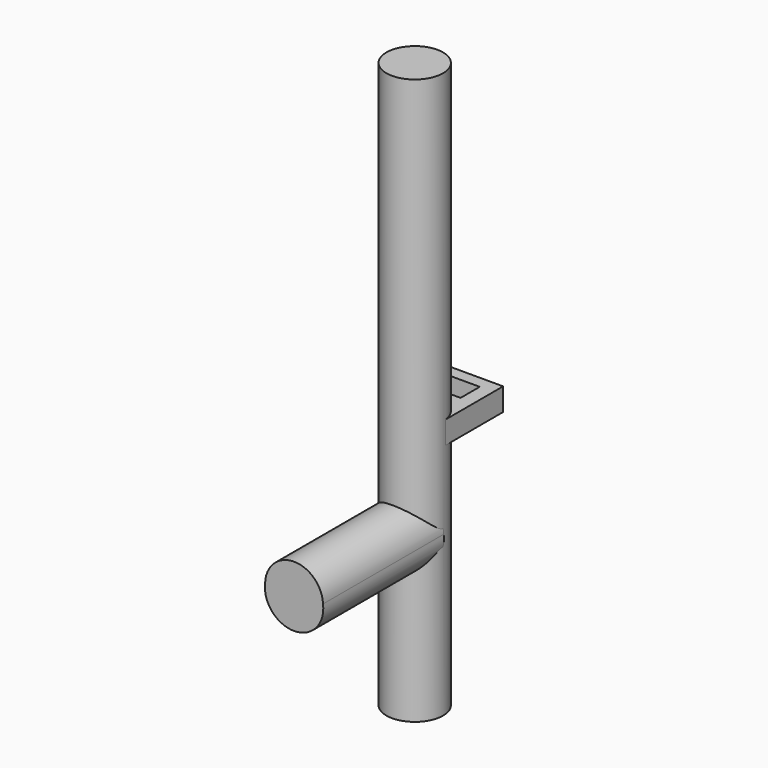
from build123d import *

# Parameters (mm, degrees)
F0_R     = 0.75
F1_DEPTH = 15
F2_R     = 0.767857
F3_DEPTH = 4
F4_R     = 0.774571
F5_DEPTH = 4
F6_W     = 1.488906
F6_H     = 0.601098
F7_DEPTH = 2
F8_W     = 0.76025
F8_H     = 0.634269
F9_DEPTH = 25


with BuildPart() as f1:
    # F0 (on Top) → F1 (new body)
    with BuildSketch(Plane.XY):
        Circle(F0_R)
        Circle(F0_R)
    extrude(amount=F1_DEPTH)

    # F2 (on Front) → F3 (join)
    with BuildSketch(Plane.XZ):
        with Locations((0, 4.209903)):
            Circle(F2_R)
    extrude(amount=F3_DEPTH)

    # F4 (on Front) → F5 (join)
    with BuildSketch(Plane.XZ):
        with Locations((0, 4.133399)):
            Circle(F4_R)
    extrude(amount=F5_DEPTH)

    # F6 (on Front) → F7 (join)
    with BuildSketch(Plane.XZ):
        with Locations((0, 6.574348)):
            Rectangle(F6_W, F6_H)
    extrude(amount=-F7_DEPTH)

    # F8 (on face) → F9 (cut)
    with BuildSketch(Plane(origin=(0, 0, 6.273799), x_dir=(1, 0, 0), z_dir=(0, 0, -1))):
        with Locations((0, -1.362656)):
            Rectangle(F8_W, F8_H)
    extrude(amount=-F9_DEPTH, mode=Mode.SUBTRACT)


solid = f1.part
